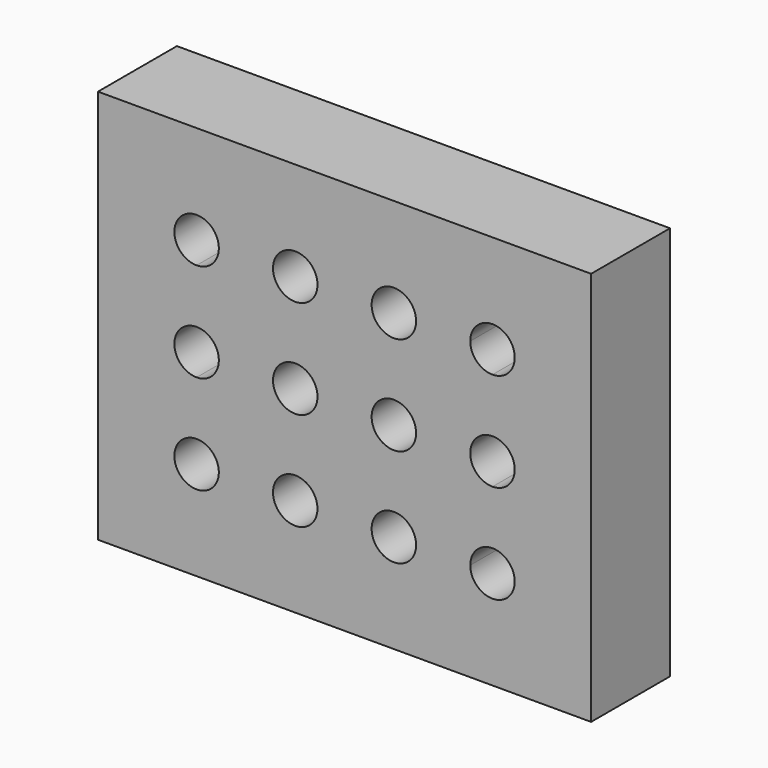
from build123d import *

# Parameters (mm, degrees)
F0_W     = 127
F0_H     = 101.6
F0_R     = 5.7277
F1_DEPTH = 25.4


with BuildPart() as f1:
    # F0 (on Front) → F1 (new body)
    with BuildSketch(Plane.XZ):
        Rectangle(F0_W, F0_H)
        with BuildLine():
            ThreePointArc((-38.1, 19.6723), (-42.150096, 29.450096), (-32.3723, 25.4))
            Line((-32.3723, 25.4), (-18.4277, 25.4))
            ThreePointArc((-18.4277, 25.4), (-12.7, 31.1277), (-6.9723, 25.4))
            Line((-6.9723, 25.4), (6.9723, 25.4))
            ThreePointArc((6.9723, 25.4), (12.7, 31.1277), (18.4277, 25.4))
            Line((18.4277, 25.4), (32.3723, 25.4))
            ThreePointArc((32.3723, 25.4), (38.1, 31.1277), (43.8277, 25.4))
            ThreePointArc((43.8277, 25.4), (42.150096, 21.349904), (38.1, 19.6723))
            Line((38.1, 19.6723), (38.1, 5.7277))
            ThreePointArc((38.1, 5.7277), (42.150096, 4.050096), (43.8277, 0))
            ThreePointArc((43.8277, 0), (42.150096, -4.050096), (38.1, -5.7277))
            Line((38.1, -5.7277), (38.1, -19.6723))
            ThreePointArc((38.1, -19.6723), (42.150096, -21.349904), (43.8277, -25.4))
            ThreePointArc((43.8277, -25.4), (38.1, -31.1277), (32.3723, -25.4))
            Line((32.3723, -25.4), (18.4277, -25.4))
            ThreePointArc((18.4277, -25.4), (12.7, -31.1277), (6.9723, -25.4))
            Line((6.9723, -25.4), (-6.9723, -25.4))
            ThreePointArc((-6.9723, -25.4), (-12.7, -31.1277), (-18.4277, -25.4))
            Line((-18.4277, -25.4), (-32.3723, -25.4))
            ThreePointArc((-32.3723, -25.4), (-42.150096, -29.450096), (-38.1, -19.6723))
            Line((-38.1, -19.6723), (-38.1, -5.7277))
            ThreePointArc((-38.1, -5.7277), (-43.8277, 0), (-38.1, 5.7277))
            Line((-38.1, 5.7277), (-38.1, 19.6723))
        make_face(mode=Mode.SUBTRACT)
        with BuildLine():
            Line((-18.4277, 25.4), (-32.3723, 25.4))
            ThreePointArc((-32.3723, 25.4), (-34.049904, 21.349904), (-38.1, 19.6723))
            Line((-38.1, 19.6723), (-38.1, 5.7277))
            ThreePointArc((-38.1, 5.7277), (-34.049904, 4.050096), (-32.3723, 0))
            ThreePointArc((-32.3723, 0), (-34.049904, -4.050096), (-38.1, -5.7277))
            Line((-38.1, -5.7277), (-38.1, -19.6723))
            ThreePointArc((-38.1, -19.6723), (-34.049904, -21.349904), (-32.3723, -25.4))
            Line((-32.3723, -25.4), (-18.4277, -25.4))
            ThreePointArc((-18.4277, -25.4), (-12.7, -19.6723), (-6.9723, -25.4))
            Line((-6.9723, -25.4), (6.9723, -25.4))
            ThreePointArc((6.9723, -25.4), (12.7, -19.6723), (18.4277, -25.4))
            Line((18.4277, -25.4), (32.3723, -25.4))
            ThreePointArc((32.3723, -25.4), (34.049904, -21.349904), (38.1, -19.6723))
            Line((38.1, -19.6723), (38.1, -5.7277))
            ThreePointArc((38.1, -5.7277), (32.3723, 0), (38.1, 5.7277))
            Line((38.1, 5.7277), (38.1, 19.6723))
            ThreePointArc((38.1, 19.6723), (34.049904, 21.349904), (32.3723, 25.4))
            Line((32.3723, 25.4), (18.4277, 25.4))
            ThreePointArc((18.4277, 25.4), (12.7, 19.6723), (6.9723, 25.4))
            Line((6.9723, 25.4), (-6.9723, 25.4))
            ThreePointArc((-6.9723, 25.4), (-12.7, 19.6723), (-18.4277, 25.4))
        make_face()
        with Locations((-12.7, 0)):
            Circle(F0_R, mode=Mode.SUBTRACT)
        with Locations((12.7, 0)):
            Circle(F0_R, mode=Mode.SUBTRACT)
    extrude(amount=F1_DEPTH)


solid = f1.part
